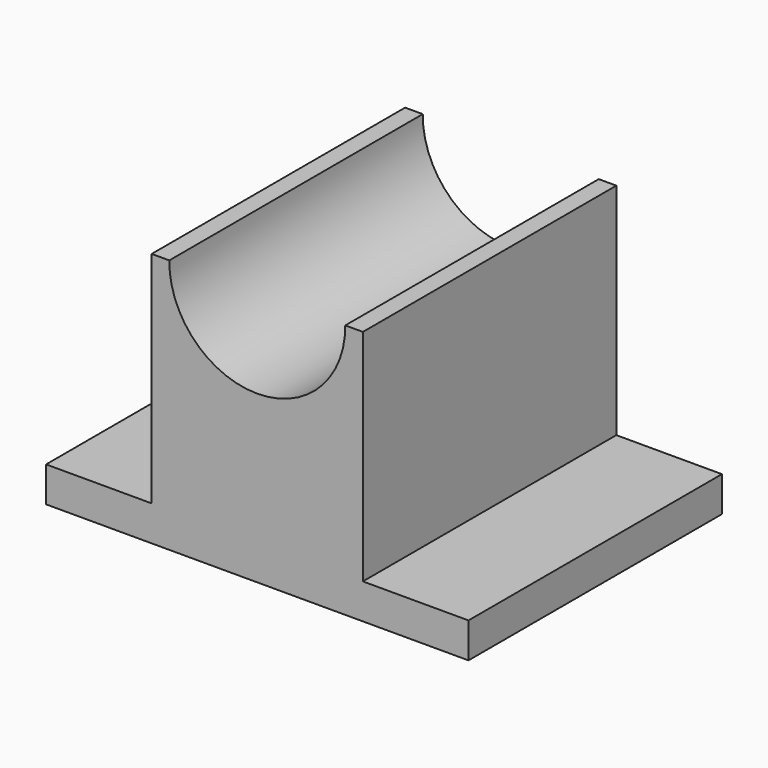
from build123d import *

# Parameters (mm, degrees)
F1_DEPTH = 114.3


with BuildPart() as f1:
    # F0 (on Front) → F1 (new body)
    with BuildSketch(Plane.XZ):
        Polygon((-44.545391, -25.591201), (-82.645391, -25.591201), (-82.645391, -38.291201), (69.754609, -38.291201), (69.754609, -25.591201), (31.654609, -25.591201), align=None)
        with BuildLine():
            Line((-44.545391, 53.656799), (-44.545391, -25.591201))
            Line((-44.545391, -25.591201), (31.654609, -25.591201))
            Line((31.654609, -25.591201), (31.654609, 53.656799))
            Line((31.654609, 53.656799), (25.304609, 53.656799))
            ThreePointArc((25.304609, 53.656799), (-6.444329, 21.647131), (-38.193267, 53.656799))
            Line((-38.193267, 53.656799), (-44.545391, 53.656799))
        make_face()
    extrude(amount=F1_DEPTH)


solid = f1.part
